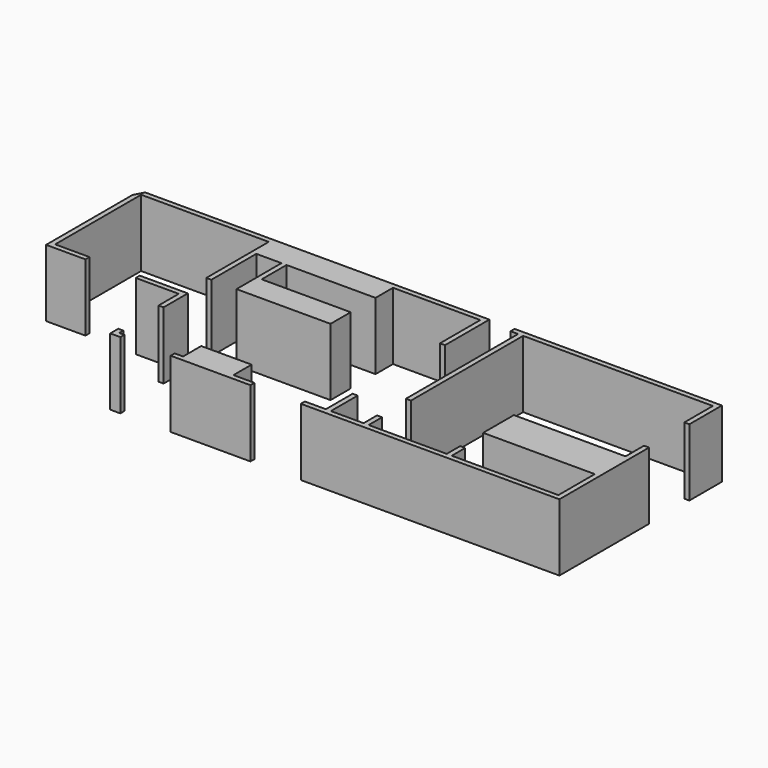
from build123d import *

# Parameters (mm, degrees)
F0_W     = 152.4
F0_H     = 1524
F0_W_2   = 2692.4
F0_H_2   = 660.4
F0_H_3   = 939.8
F0_H_4   = 762
F0_H_5   = 1701.8
F2_DEPTH = 2032
F0_W_3   = 3378.2
F0_H_6   = 1163.1207679749
F0_H_7   = 508
F0_H_8   = 1016
F0_H_9   = 1078.9255742073
F0_W_4   = 1524
F0_H_10  = 685.8
F0_H_11  = 152.4


with BuildPart() as f2:
    # F0 (on Top) → F2 (new body)
    with BuildSketch(Plane.XY):
        with Locations((-4307.0259521484, 996.4976905823)):
            Rectangle(F0_W, F0_H)
        Polygon((-4383.2259521484, 1758.4976905823), (-4230.8259521484, 1758.4976905823), (-4230.8259521484, 1910.8976905823), (-14644.8259521484, 1910.8976905823), (-14644.8259521484, 1758.4976905823), (-10784.0259521484, 1758.4976905823), (-10631.6259521484, 1758.4976905823), (-9869.6259521484, 1758.4976905823), (-9717.2259521484, 1758.4976905823), (-7024.8259521484, 1758.4976905823), align=None)
        with Locations((-8371.0259521484, 1428.2976905823)):
            Rectangle(F0_W_2, F0_H_2)
        Polygon((-14644.8259521484, 1758.4976905823), (-14644.8259521484, 1910.8976905823), (-14797.2259521484, 1620.3435659409), (-14797.2259521484, -1645.1023094177), (-13607.7785491943, -1645.1023094177), (-13607.7785491943, -1492.7023094177), (-14644.8259521484, -1492.7023094177), align=None)
        with Locations((-9793.4259521484, 1428.2976905823)):
            Rectangle(F0_W, F0_H_2)
        with Locations((-9793.4259521484, 628.1976905823)):
            Rectangle(F0_W, F0_H_3)
        Polygon((-9869.6259521484, 1098.0976905823), (-9869.6259521484, 1758.4976905823), (-10631.6259521484, 1758.4976905823), (-10784.0259521484, 1758.4976905823), (-10784.0259521484, 1098.0976905823), (-10631.6259521484, 1098.0976905823), align=None)
        with Locations((-9793.4259521484, -222.7023094177)):
            Rectangle(F0_W, F0_H_4)
        with Locations((-8371.0259521484, -222.7023094177)):
            Rectangle(F0_W_2, F0_H_4)
        with Locations((-10707.8259521484, 247.1976905823)):
            Rectangle(F0_W, F0_H_5)
    extrude(amount=F2_DEPTH)


with BuildPart() as f2b:
    # F0 (on Top) → F2, piece 2 (new body)
    with BuildSketch(Plane.XY):
        Polygon((2804.9740478516, -844.427883625), (2652.5740478516, -844.427883625), (2652.5740478516, -1543.5023094177), (2652.5740478516, -2706.6230773926), (2652.5740478516, -4083.5023094177), (-573.2259521484, -4083.5023094177), (-725.6259521484, -4083.5023094177), (-3087.8259521484, -4083.5023094177), (-3240.2259521484, -4083.5023094177), (-4230.8259521484, -4083.5023094177), (-4383.2259521484, -4083.5023094177), (-5017.5086746216, -4083.5023094177), (-5017.5086746216, -4235.9023094177), (2804.9740478516, -4235.9023094177), align=None)
        with Locations((963.4740478516, -2125.0626934051)):
            Rectangle(F0_W_3, F0_H_6)
        with Locations((-649.4259521484, -3829.5023094177)):
            Rectangle(F0_W, F0_H_7)
        with Locations((-4307.0259521484, -3575.5023094177)):
            Rectangle(F0_W, F0_H_8)
        with Locations((-3164.0259521484, -3829.5023094177)):
            Rectangle(F0_W, F0_H_7)
    extrude(amount=F2_DEPTH)


with BuildPart() as f2c:
    # F0 (on Top) → F2, piece 3 (new body)
    with BuildSketch(Plane.XY):
        with Locations((2728.7740478516, 1219.0349034786)):
            Rectangle(F0_W, F0_H_9)
        Polygon((-3087.8259521484, 1758.4976905823), (2652.5740478516, 1758.4976905823), (2804.9740478516, 1758.4976905823), (2804.9740478516, 1910.8976905823), (-3468.8259521484, 1910.8976905823), (-3468.8259521484, 1758.4976905823), (-3240.2259521484, 1758.4976905823), align=None)
        Polygon((-3087.8259521484, -1543.5023094177), (-3087.8259521484, 1758.4976905823), (-3240.2259521484, 1758.4976905823), (-3240.2259521484, -2483.3023094177), (-3087.8259521484, -2483.3023094177), align=None)
    extrude(amount=F2_DEPTH)


with BuildPart() as f2d:
    # F0 (on Top) → F2, piece 4 (new body)
    with BuildSketch(Plane.XY):
        Polygon((-6541.5086746216, -4235.9023094177), (-6541.5086746216, -4083.5023094177), (-7177.2259521484, -4083.5023094177), (-8701.2259521484, -4083.5023094177), (-8955.2259521484, -4083.5023094177), (-8955.2259521484, -4235.9023094177), align=None)
        with Locations((-7939.2259521484, -3740.6023094177)):
            Rectangle(F0_W_4, F0_H_10)
    extrude(amount=F2_DEPTH)


with BuildPart() as f2e:
    # F0 (on Top) → F2, piece 5 (new body)
    with BuildSketch(Plane.XY):
        Polygon((-10631.6259521484, -1645.1023094177), (-10631.6259521484, -1492.7023094177), (-12083.7785491943, -1492.7023094177), (-12083.7785491943, -1645.1023094177), (-10784.0259521484, -1645.1023094177), (-10784.0259521484, -2407.1023094177), (-10631.6259521484, -2407.1023094177), align=None)
    extrude(amount=F2_DEPTH)


with BuildPart() as f2f:
    # F0 (on Top) → F2, piece 6 (new body)
    with BuildSketch(Plane.XY):
        Polygon((-10479.2259521484, -4083.5023094177), (-10631.6259521484, -4083.5023094177), (-10784.0259521484, -4083.5023094177), (-10784.0259521484, -4235.9023094177), (-10479.2259521484, -4235.9023094177), align=None)
        with Locations((-10707.8259521484, -4007.3023094177)):
            Rectangle(F0_W, F0_H_11)
    extrude(amount=F2_DEPTH)


solid = Compound([f2.part, f2b.part, f2c.part, f2d.part, f2e.part, f2f.part])
